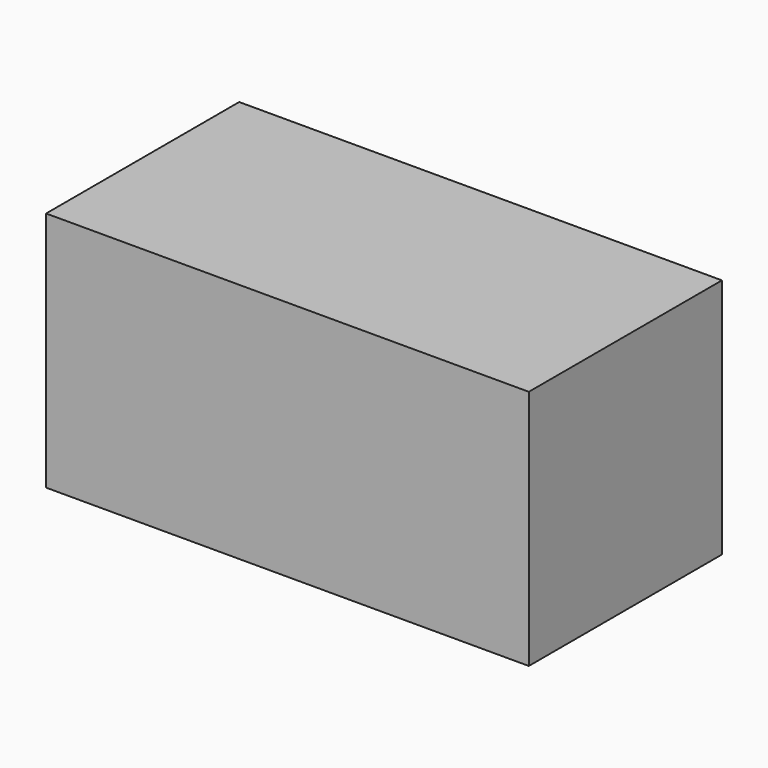
from build123d import *

# Parameters (mm, degrees)
F0_W     = 101.6
F0_H     = 50.8
F1_DEPTH = 50.8
F2_R     = 6.35
F3_DEPTH = 38.1


with BuildPart() as f1:
    # F0 (on Front) → F1 (new body)
    with BuildSketch(Plane.XZ):
        with Locations((18.877361, -9.379286)):
            Rectangle(F0_W, F0_H)
    extrude(amount=F1_DEPTH)

    # F2 (on Front) → F3 (cut)
    with BuildSketch(Plane.XZ):
        with Locations((-19.222639, 3.320714)):
            Circle(F2_R)
        with Locations((-19.222639, -22.079286)):
            Circle(F2_R)
        with Locations((-0.172639, 3.320714)):
            Circle(F2_R)
        with Locations((-0.172639, -22.079286)):
            Circle(F2_R)
        with Locations((18.877361, 3.320714)):
            Circle(F2_R)
        with Locations((18.877361, -22.079286)):
            Circle(F2_R)
        with Locations((37.927361, -22.079286)):
            Circle(F2_R)
        with Locations((37.927361, 3.320714)):
            Circle(F2_R)
        with Locations((56.977361, 3.320714)):
            Circle(F2_R)
        with Locations((56.977361, -22.079286)):
            Circle(F2_R)
    extrude(amount=F3_DEPTH, mode=Mode.SUBTRACT)


solid = f1.part
